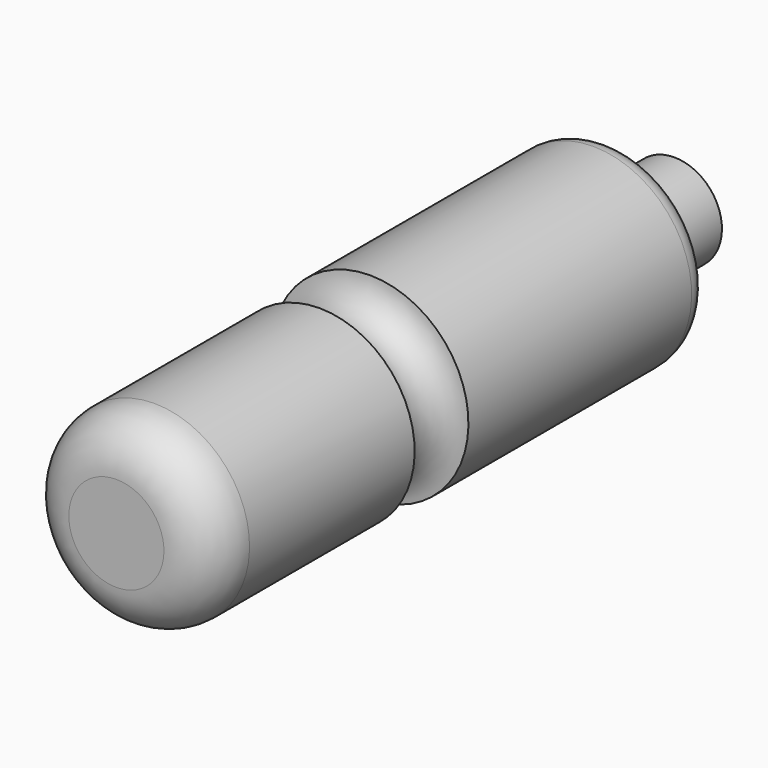
from build123d import *


with BuildPart() as f1:
    # F0 (on Right) → F1 (revolve)
    with BuildSketch(Plane.YZ):
        with BuildLine():
            Line((-123.77214, 15), (-123.77214, 0))
            Line((-123.77214, 0), (96.22786, 0))
            Line((96.22786, 0), (96.22786, 15))
            Line((96.22786, 15), (78.22786, 15))
            ThreePointArc((78.22786, 15), (73.278113, 17.050253), (71.22786, 22))
            Line((71.22786, 22), (71.22786, 24.047213))
            ThreePointArc((71.22786, 24.047213), (69.177608, 28.996961), (64.22786, 31.047213))
            Line((64.22786, 31.047213), (-23.778022, 31.047213))
            ThreePointArc((-23.778022, 31.047213), (-33.246551, 21.403982), (-43.675041, 30))
            Line((-43.675041, 30), (-108.77214, 30))
            ThreePointArc((-108.77214, 30), (-119.378742, 25.606602), (-123.77214, 15))
        make_face()
    revolve(axis=Axis((0, 76.22786, 0), (0, 1, 0)))


solid = f1.part
